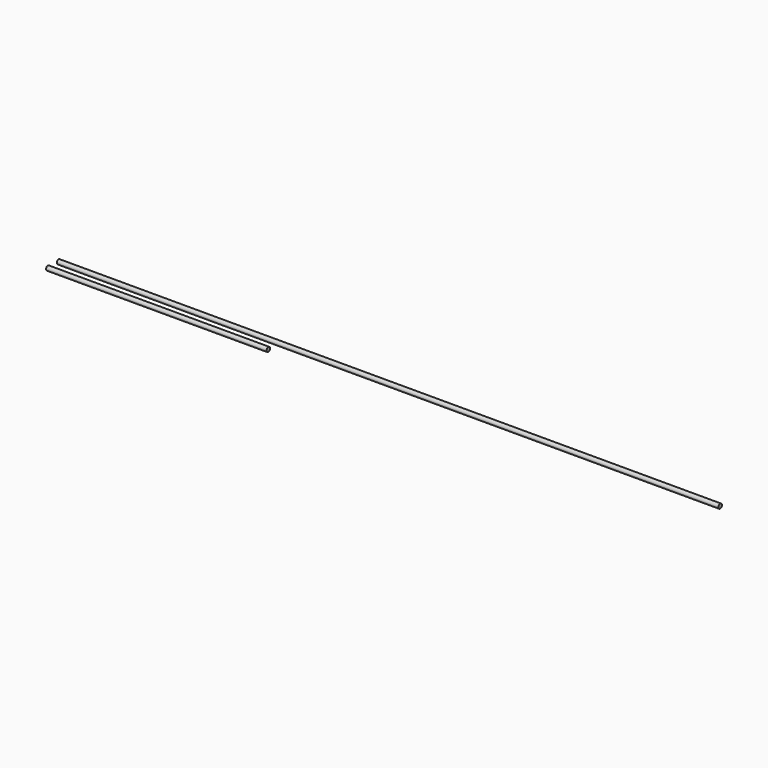
from build123d import *

# Parameters (mm, degrees)
F0_R     = 10
F1_DEPTH = 3000
F2_R     = 10
F3_DEPTH = 1000


with BuildPart() as f1:
    # F0 (on Right) → F1 (new body)
    with BuildSketch(Plane.YZ):
        Circle(F0_R)
    extrude(amount=F1_DEPTH)


with BuildPart() as f3:
    # F2 (on Right) → F3 (new body)
    with BuildSketch(Plane.YZ):
        with Locations((-61.165709, 0)):
            Circle(F2_R)
    extrude(amount=F3_DEPTH)


solid = Compound([f1.part, f3.part])
